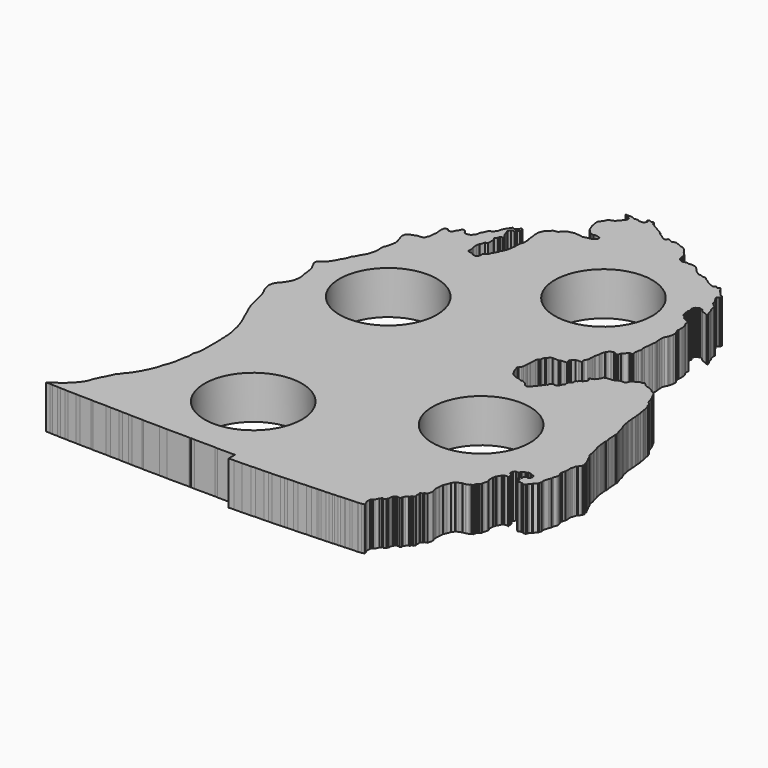
from build123d import *

# Parameters (mm, degrees)
F1_DEPTH = 25.4
F2_R     = 28.575
F3_DEPTH = 25.401


with BuildPart() as f1:
    # F0 (on Top) → F1 (new body)
    with BuildSketch(Plane.XY):
        Polygon((-98.645421, -17.82224), (-98.471279, -18.691657), (-98.297771, -19.561073), (-98.124061, -20.43049), (-97.776208, -21.647963), (-97.776208, -21.821267), (-97.602269, -22.51677), (-97.602269, -22.864826), (-97.428558, -23.386186), (-97.254644, -24.255603), (-97.080908, -24.429517), (-96.733284, -25.64699), (-96.733284, -25.994436), (-96.037781, -28.25463), (-95.86407, -28.428569), (-95.86407, -28.77599), (-95.168771, -30.341519), (-94.473268, -31.905626), (-93.604283, -33.818576), (-92.38742, -36.600765), (-91.344699, -39.034872), (-90.997049, -39.556436), (-90.128039, -41.817265), (-89.780186, -42.511929), (-89.258826, -43.903544), (-88.737262, -45.294321), (-88.563552, -45.989596), (-88.042166, -47.555125), (-88.042166, -47.728429), (-87.868049, -47.902571), (-87.868049, -48.771988), (-87.694541, -49.120044), (-87.694541, -49.815521), (-87.346892, -50.510008), (-87.346892, -50.858039), (-87.172978, -51.727481), (-86.825531, -52.945157), (-86.478288, -55.031208), (-86.478288, -55.205351), (-86.478288, -55.378452), (-86.303561, -56.944184), (-86.303561, -58.508875), (-86.130232, -59.552434), (-86.130232, -60.247098), (-86.130232, -60.42185), (-86.130232, -60.769094), (-86.130232, -61.464571), (-86.130232, -61.812627), (-85.956115, -62.855348), (-85.956115, -63.029287), (-85.956115, -64.072821), (-85.956115, -64.594181), (-85.956115, -64.76812), (-85.956115, -64.942237), (-85.956115, -66.15971), (-85.956115, -66.681071), (-85.956115, -67.723817), (-85.956115, -68.245787), (-85.956115, -68.76735), (-85.956115, -69.636767), (-85.956115, -69.98401), (-85.956115, -70.332067), (-85.956115, -71.028154), (-85.956115, -71.549539), (-85.956115, -71.896961), (-85.956115, -72.940316), (-85.956115, -73.11423), (-85.956115, -74.157154), (-85.956115, -75.027206), (-85.956115, -75.374627), (-86.130232, -77.11346), (-86.303561, -77.982877), (-86.303561, -78.33012), (-86.303561, -78.504263), (-86.478288, -79.026233), (-86.478288, -79.199537), (-86.999648, -80.243096), (-87.172978, -80.590314), (-87.172978, -80.93837), (-87.172978, -81.112512), (-87.346892, -81.112512), (-87.346892, -81.286426), (-87.172978, -82.677203), (-87.172978, -84.06798), (-87.172978, -84.415427), (-87.346892, -85.284843), (-87.694541, -86.502316), (-88.042166, -88.241149), (-88.042166, -88.415089), (-88.215902, -89.805866), (-88.389409, -90.153287), (-88.389409, -91.022703), (-88.737262, -92.762375), (-88.737262, -92.935679), (-88.911176, -93.457649), (-89.432536, -95.369812), (-89.432536, -95.543929), (-89.432536, -95.717843), (-89.780186, -96.413345), (-90.128039, -97.282762), (-90.30175, -97.804122), (-90.82311, -98.673539), (-90.82311, -98.847478), (-90.82311, -99.195738), (-90.82311, -99.368839), (-90.997049, -99.890199), (-90.997049, -100.064951), (-91.17076, -100.759616), (-91.51841, -101.803149), (-92.38742, -103.889226), (-92.909187, -105.454958), (-93.604283, -106.671618), (-94.99506, -109.453985), (-94.99506, -109.627289), (-95.168771, -109.975345), (-95.516421, -110.323401), (-96.559548, -112.062235), (-96.559548, -112.235564), (-97.776208, -113.801068), (-97.949918, -114.148514), (-98.297771, -114.495758), (-100.035792, -116.582647), (-101.078919, -118.147541), (-101.25263, -118.32148), (-101.600279, -118.494785), (-101.947929, -119.016958), (-102.295579, -119.538953), (-102.46929, -119.886374), (-102.643432, -120.407735), (-103.338503, -121.972451), (-103.860067, -122.841868), (-103.860067, -123.189924), (-104.555163, -124.407397), (-105.25064, -125.62426), (-105.94594, -127.015037), (-106.4673, -128.231671), (-106.989067, -129.27584), (-107.162778, -129.7972), (-107.858077, -131.88348), (-108.031788, -132.40545), (-108.553148, -133.448196), (-109.074941, -134.143674), (-109.943951, -135.534451), (-110.117661, -135.70839), (-110.291575, -136.056446), (-110.465311, -136.056446), (-111.682149, -137.447223), (-111.856088, -137.62134), (-112.203306, -137.969396), (-113.767819, -139.533503), (-114.637033, -140.40292), (-115.158596, -140.750976), (-115.853667, -141.446453), (-116.02781, -141.446453), (-116.89682, -142.142566), (-117.24447, -142.489809), (-117.766033, -142.663113), (-118.635043, -143.359226), (-119.330318, -143.880586), (-120.720891, -144.750003), (-120.720891, -144.92412), (-120.894831, -144.92412), (-121.937551, -145.619419), (-121.590308, -145.619419), (-121.242455, -145.619419), (-120.894831, -145.619419), (-120.720891, -145.619419), (-119.504028, -145.619419), (-117.939947, -145.793536), (-117.766033, -145.793536), (-117.592297, -145.793536), (-116.20152, -145.793536), (-114.984682, -145.793536), (-113.246459, -145.967475), (-111.682149, -145.967475), (-110.639428, -145.967475), (-108.553148, -146.141592), (-107.858077, -146.141592), (-106.989067, -146.141592), (-106.81495, -146.141592), (-105.25064, -146.141592), (-104.902787, -146.141592), (-104.033803, -146.141592), (-101.426569, -146.314897), (-99.688142, -146.314897), (-99.166782, -146.314897), (-96.037781, -146.314897), (-95.516421, -146.314897), (-94.99506, -146.314897), (-93.604283, -146.488836), (-93.256633, -146.488836), (-92.909187, -146.488836), (-91.17076, -146.488836), (-90.82311, -146.488836), (-90.30175, -146.488836), (-89.953922, -146.488836), (-89.606272, -146.488836), (-89.432536, -146.488836), (-89.084912, -146.488836), (-88.911176, -146.488836), (-88.563552, -146.488836), (-88.215902, -146.488836), (-86.478288, -146.488836), (-85.956115, -146.488836), (-83.175373, -146.662953), (-83.001231, -146.662953), (-82.131814, -146.662953), (-79.525012, -146.662953), (-78.308149, -146.662953), (-76.222073, -146.836892), (-76.047956, -146.836892), (-75.874651, -146.836892), (-75.700712, -146.836892), (-75.527408, -146.836892), (-74.657991, -146.836892), (-72.745651, -146.836892), (-70.312153, -147.010196), (-69.790158, -147.010196), (-69.269407, -147.010196), (-69.095493, -147.010196), (-68.921351, -147.010196), (-67.531412, -147.010196), (-67.010051, -147.010196), (-65.445132, -147.010196), (-64.402411, -147.010196), (-63.532995, -147.184313), (-63.359665, -147.184313), (-62.142827, -147.184313), (-60.925354, -147.184313), (-60.578111, -147.184313), (-57.275197, -147.184313), (-57.101054, -147.184313), (-56.579694, -147.184313), (-56.40639, -147.184313), (-55.536973, -147.184313), (-55.015613, -147.184313), (-54.146196, -147.184313), (-49.627231, -147.358252), (-49.105261, -147.358252), (-48.931754, -147.358252), (-47.367038, -147.358252), (-44.411951, -147.358252), (-44.064733, -147.358252), (-43.021174, -147.358252), (-41.457093, -147.358252), (-40.762631, -147.358252), (-40.414372, -147.358252), (-40.067128, -147.358252), (-39.719072, -147.358252), (-38.676351, -147.358252), (-37.980849, -147.358252), (-37.459488, -147.358252), (-36.938128, -147.358252), (-36.590072, -147.358252), (-35.547351, -147.531557), (-35.373437, -147.358252), (-33.287157, -147.531557), (-31.201716, -147.531557), (-29.984852, -147.531557), (-29.811548, -147.531557), (-27.029969, -147.531557), (-26.856055, -147.531557), (-24.943714, -147.531557), (-23.552937, -147.531557), (-23.03239, -147.531557), (-22.510394, -147.531557), (-22.336277, -147.531557), (-21.293557, -147.531557), (-19.72945, -147.706309), (-18.686729, -147.706309), (-18.164556, -147.706309), (-17.991252, -147.706309), (-16.947896, -147.706309), (-16.426536, -147.706309), (-12.428728, -147.706309), (-10.516591, -147.706309), (-10.168534, -147.706309), (-9.47387, -147.706309), (-9.47387, -148.923172), (-9.47387, -149.27039), (-9.47387, -149.618446), (-9.47387, -150.662005), (-9.47387, -151.530583), (-9.47387, -151.87864), (-9.47387, -152.4), (-6.344869, -152.226899), (-6.170955, -152.226899), (-4.084676, -152.226899), (-2.868016, -152.226899), (-1.825295, -152.226899), (3.563087, -152.052782), (5.996788, -151.87864), (6.866204, -151.87864), (8.951671, -151.87864), (9.994392, -151.87864), (11.037722, -151.87864), (13.297306, -151.705539), (13.471246, -151.705539), (15.383586, -151.705539), (20.249972, -151.530583), (22.683292, -151.357482), (23.205465, -151.357482), (23.726826, -151.357482), (24.248186, -151.357482), (27.551126, -151.183365), (28.941903, -151.183365), (29.115207, -151.183365), (30.33207, -151.183365), (35.025762, -150.836122), (35.547122, -150.836122), (37.98001, -150.836122), (41.109646, -150.662005), (42.151529, -150.662005), (43.368392, -150.487863), (43.890362, -150.487863), (46.149946, -150.487863), (47.714052, -150.313949), (48.757586, -150.313949), (49.800307, -150.313949), (51.016967, -150.139806), (51.191109, -150.139806), (51.538327, -150.139806), (51.886383, -150.139806), (52.407744, -150.139806), (53.103247, -150.139806), (54.145967, -149.966705), (55.189501, -149.966705), (55.362831, -149.966705), (55.710049, -149.966705), (55.884191, -149.966705), (56.058105, -149.966705), (56.579465, -149.966705), (57.100826, -149.792588), (57.274968, -149.792588), (57.623024, -149.792588), (58.144385, -149.792588), (58.664932, -149.792588), (59.708466, -149.792588), (60.751187, -149.618446), (61.794542, -149.618446), (62.315293, -149.618446), (63.18471, -149.618446), (63.358827, -149.618446), (63.532131, -149.618446), (63.879984, -149.618446), (64.054126, -149.618446), (64.575487, -149.445142), (64.749401, -149.445142), (65.27099, -149.445142), (65.444903, -149.445142), (65.965654, -149.445142), (66.139568, -149.445142), (66.139568, -149.27039), (66.487624, -149.27039), (67.182289, -149.097086), (67.704487, -148.923172), (67.530345, -148.227669), (66.835071, -146.662953), (66.661767, -145.967475), (66.661767, -145.793536), (66.661767, -145.619419), (66.661767, -145.44548), (66.661767, -145.271363), (66.661767, -145.098059), (66.661767, -144.576063), (66.661767, -144.401946), (66.661767, -143.880586), (66.835071, -143.53253), (66.835071, -143.359226), (67.008985, -143.185286), (67.008985, -143.011982), (67.182289, -143.011982), (67.704487, -142.837865), (68.051705, -142.489809), (68.399152, -142.142566), (69.095264, -140.40292), (69.268569, -140.40292), (69.268569, -140.22959), (69.442711, -139.881559), (69.964071, -139.18626), (69.964071, -139.012117), (70.137985, -139.012117), (70.485229, -138.838813), (70.659346, -139.360173), (70.83265, -139.533503), (71.180706, -139.360173), (71.354645, -139.18626), (71.702066, -138.838813), (71.876006, -138.664086), (72.223452, -138.490757), (72.223452, -138.31664), (72.397569, -137.62134), (72.571508, -137.447223), (72.571508, -137.274122), (72.571508, -136.404706), (72.571508, -136.230563), (72.91893, -135.18703), (72.91893, -135.01309), (73.092869, -135.01309), (73.44029, -134.317613), (73.614229, -134.317613), (73.788346, -134.143674), (73.788346, -133.96976), (73.962285, -133.96976), (74.136402, -133.795618), (74.309707, -133.622313), (74.657763, -133.622313), (74.831067, -133.622313), (75.179123, -133.622313), (75.700484, -133.795618), (76.047727, -133.96976), (76.569087, -133.448196), (76.74323, -133.100953), (76.74323, -132.40545), (76.917144, -132.057394), (77.26459, -131.536034), (77.438504, -131.187977), (78.307921, -130.318561), (78.655367, -130.144647), (79.003423, -130.318561), (79.350641, -129.623287), (79.350641, -128.927174), (80.393388, -128.927174), (80.567505, -128.75387), (80.914951, -127.884453), (80.740809, -127.188951), (80.567505, -127.015037), (80.567505, -126.66759), (80.740809, -125.450117), (80.567505, -124.754843), (80.393388, -124.754843), (80.567505, -124.407397), (81.436921, -123.885427), (81.610225, -123.885427), (82.131586, -123.01601), (83.522388, -122.668563), (84.217866, -119.886374), (84.043749, -119.712257), (84.043749, -119.190059), (83.695692, -118.147541), (83.348246, -116.408708), (83.348246, -116.234591), (83.522388, -114.148514), (83.522388, -113.801068), (83.695692, -111.888118), (83.695692, -111.540061), (84.043749, -111.018701), (84.39117, -110.149284), (84.565109, -109.802041), (85.260586, -107.888456), (85.260586, -107.715152), (85.60783, -107.193791), (86.303333, -106.324375), (86.477246, -106.150258), (86.477246, -105.976318), (87.172749, -105.628059), (87.868023, -105.280841), (88.389384, -105.106902), (89.258191, -104.758642), (89.606247, -104.585541), (90.127607, -104.585541), (91.171166, -104.411399), (91.518384, -104.411399), (92.908552, -103.889226), (93.256608, -103.541982), (93.430522, -103.367865), (93.604664, -103.194764), (93.777968, -103.194764), (93.951908, -103.194764), (94.299329, -103.019809), (94.820689, -102.846708), (94.473268, -102.325348), (94.820689, -101.803149), (94.820689, -101.629032), (94.994628, -101.281789), (95.168745, -100.934368), (95.34205, -100.934368), (95.690106, -100.586515), (96.037349, -100.412372), (96.211466, -100.412372), (96.385405, -100.064951), (96.732852, -99.368839), (96.732852, -98.847478), (96.732852, -98.673539), (96.906766, -98.151366), (97.428126, -96.413345), (97.602269, -95.543929), (97.428126, -95.021756), (97.080883, -94.50037), (96.906766, -94.152339), (96.906766, -93.979009), (96.906766, -93.805096), (96.906766, -93.630953), (96.906766, -93.457649), (96.906766, -93.283735), (96.906766, -92.935679), (96.906766, -92.762375), (96.906766, -92.588232), (96.906766, -92.066262), (96.906766, -91.89212), (96.906766, -91.718816), (96.906766, -91.37076), (97.080883, -91.022703), (97.254212, -90.328039), (97.254212, -90.153287), (97.428126, -89.979983), (97.428126, -89.805866), (97.428126, -89.632765), (97.602269, -89.458622), (97.949487, -88.936449), (98.123629, -88.76251), (98.471685, -88.241149), (98.644989, -87.719789), (98.644989, -87.371733), (98.818903, -87.371733), (98.818903, -87.197819), (99.16635, -87.023677), (99.16635, -86.850372), (99.340264, -86.850372), (99.514406, -86.67623), (100.209071, -86.502316), (100.383213, -86.502316), (100.557127, -86.502316), (100.731041, -86.502316), (101.425934, -86.502316), (101.947294, -86.67623), (102.122046, -87.023677), (102.29535, -86.850372), (102.29535, -86.328402), (101.947294, -85.6329), (101.947294, -84.764093), (101.947294, -84.415427), (101.947294, -84.06798), (101.078487, -83.720762), (100.731041, -83.54662), (100.209071, -83.025259), (100.209071, -82.329147), (100.209071, -82.155233), (100.209071, -81.981929), (100.383213, -81.459934), (100.383213, -81.286426), (100.557127, -81.286426), (100.731041, -80.93837), (101.425934, -80.243096), (101.599848, -80.243096), (101.947294, -80.243096), (102.29535, -80.4164), (102.990625, -80.243096), (103.163929, -80.068953), (103.338681, -79.546983), (103.511985, -79.373679), (103.686127, -79.026233), (104.381402, -78.678176), (104.728848, -78.33012), (105.250209, -77.982877), (106.292929, -77.982877), (106.640986, -77.460704), (107.510402, -77.460704), (108.031763, -77.634846), (108.726453, -78.156816), (108.90057, -78.33012), (109.074509, -78.33012), (109.943087, -78.504263), (110.291347, -78.504263), (110.465286, -78.678176), (110.639403, -78.852293), (110.812504, -79.199537), (110.986646, -79.721735), (110.986646, -79.895649), (110.812504, -80.243096), (110.812504, -80.590314), (110.465286, -80.93837), (110.465286, -81.112512), (109.769986, -81.807787), (109.595869, -81.807787), (109.422565, -81.633873), (109.248626, -81.633873), (108.379209, -81.459934), (107.336285, -82.155233), (107.336285, -82.329147), (107.683732, -82.851346), (107.683732, -83.54662), (106.640986, -83.720762), (106.119625, -84.415427), (106.119625, -84.937397), (106.814925, -85.284843), (107.510402, -85.111539), (107.857646, -85.980956), (107.857646, -87.371733), (108.007963, -87.471936), (108.582308, -87.966804), (108.633946, -87.946941), (108.693941, -87.910594), (108.761809, -87.860429), (108.837146, -87.799139), (109.008342, -87.653927), (109.203947, -87.496345), (109.309764, -87.419637), (109.420304, -87.347857), (109.535163, -87.283696), (109.653857, -87.229874), (109.775955, -87.189005), (109.838134, -87.174273), (109.900999, -87.163808), (109.964474, -87.157916), (110.028507, -87.15695), (110.093074, -87.161243), (110.158098, -87.171124), (110.11723, -87.545647), (110.465286, -87.371733), (110.986646, -87.371733), (111.508007, -87.545647), (111.682149, -87.719789), (112.029367, -87.893906), (112.898784, -87.719789), (113.24623, -87.545647), (113.420144, -86.67623), (113.594286, -86.502316), (113.941504, -85.980956), (114.810311, -85.284843), (114.984251, -84.764093), (115.158368, -84.590179), (116.549145, -83.372706), (116.722449, -83.025259), (116.722449, -82.851346), (116.896591, -82.503289), (116.896591, -82.329147), (117.070505, -81.459934), (117.244444, -81.112512), (117.070505, -80.068953), (117.070505, -79.199537), (117.766008, -76.765404), (117.939922, -76.417983), (118.287368, -75.547957), (118.460672, -75.374627), (118.460672, -75.20051), (118.460672, -74.67915), (118.460672, -74.331093), (118.460672, -73.983647), (119.156785, -72.418321), (119.329886, -71.896961), (119.329886, -71.3756), (118.982668, -70.158737), (118.635424, -69.28932), (118.460672, -68.941264), (118.460672, -68.593233), (118.460672, -68.419904), (118.460672, -67.550487), (118.635424, -67.202431), (118.635424, -67.028314), (118.808525, -66.333014), (118.982668, -65.984958), (118.982668, -65.115542), (119.156785, -64.594181), (118.982668, -63.203404), (118.982668, -63.029287), (118.982668, -62.855348), (118.982668, -62.507927), (118.982668, -62.159871), (118.982668, -61.985931), (119.156785, -61.464571), (119.329886, -60.943211), (119.677332, -59.552434), (120.025389, -58.856321), (120.025389, -58.683017), (120.373445, -58.508875), (120.546749, -58.160818), (121.068109, -57.639458), (121.590283, -56.596128), (121.763612, -56.596128), (121.763612, -56.422823), (121.763612, -56.247868), (121.937526, -55.726711), (121.590283, -55.378452), (121.416166, -55.205351), (121.416166, -55.031208), (121.242226, -54.857091), (121.242226, -54.68399), (121.242226, -54.509238), (121.242226, -54.335934), (121.242226, -54.161792), (121.242226, -53.987675), (121.590283, -53.814574), (121.590283, -53.640431), (121.242226, -53.466517), (121.068109, -52.945157), (120.894196, -52.771015), (120.720866, -52.248841), (120.373445, -51.554355), (120.199302, -51.206095), (119.329886, -49.640592), (119.156785, -49.120044), (118.635424, -47.902571), (118.460672, -47.555125), (117.591865, -46.510956), (117.417748, -45.294321), (117.417748, -44.772123), (117.244444, -44.251575), (117.244444, -43.555488), (117.244444, -43.381346), (117.070505, -43.208042), (116.722449, -42.164686), (116.722449, -41.642513), (116.549145, -41.642513), (116.201088, -39.556436), (115.853667, -38.687019), (115.679728, -38.512902), (115.679728, -38.339598), (115.679728, -38.165456), (115.505611, -37.470182), (115.158368, -35.383902), (115.158368, -35.035846), (115.158368, -34.861932), (115.158368, -34.687789), (114.984251, -33.644459), (114.984251, -33.297012), (114.810311, -32.253657), (114.810311, -31.384875), (114.984251, -31.036209), (114.984251, -30.688763), (114.810311, -29.297986), (114.637007, -28.602686), (114.462865, -28.25463), (114.462865, -26.863853), (114.288951, -24.950903), (114.288951, -24.255603), (114.288951, -24.081486), (114.288951, -23.212044), (114.115647, -22.864826), (114.288951, -22.51677), (114.288951, -22.168714), (114.115647, -21.647963), (113.767591, -20.43049), (113.420144, -19.735013), (113.24623, -19.039713), (112.898784, -18.170296), (112.72487, -17.300067), (112.72487, -16.779519), (112.376814, -15.910103), (111.508007, -13.823213), (111.15995, -12.258294), (111.15995, -12.08438), (110.986646, -11.041659), (110.812504, -10.346157), (110.639403, -9.47613), (110.639403, -9.301988), (110.639403, -9.128684), (110.465286, -7.215937), (110.465286, -6.867881), (110.291347, -5.825134), (110.291347, -5.651017), (110.291347, -5.477713), (110.291347, -4.607458), (110.291347, -4.433545), (110.291347, -4.086098), (110.291347, -3.738042), (110.11723, -2.868625), (109.943087, -1.651991), (109.943087, -0.956488), (109.769986, 0.782345), (109.422565, 1.303706), (109.422565, 1.999818), (109.422565, 2.869235), (109.248626, 3.564509), (109.074509, 4.085895), (109.074509, 4.607255), (108.726453, 5.824093), (108.553148, 7.041566), (108.553148, 7.562926), (108.379209, 7.562926), (108.205702, 7.737678), (108.031763, 7.910982), (107.857646, 8.085125), (107.683732, 8.432343), (107.857646, 8.606282), (108.031763, 8.606282), (107.857646, 8.954338), (107.857646, 9.127642), (107.857646, 9.301785), (107.683732, 9.649816), (107.510402, 9.823755), (107.162346, 10.171201), (106.988229, 10.519232), (105.945508, 11.388674), (105.771569, 12.084152), (105.598265, 12.258091), (105.076092, 13.996289), (104.728848, 14.866341), (104.728848, 15.039645), (104.554731, 15.387701), (104.207488, 16.083178), (104.033371, 16.257118), (103.511985, 17.47459), (103.338681, 17.647895), (103.163929, 17.995951), (102.642568, 19.212814), (102.469264, 19.386728), (102.122046, 19.734784), (101.078487, 20.430287), (100.905183, 20.430287), (100.557127, 20.603591), (100.209071, 20.603591), (99.861624, 20.951647), (99.514406, 21.646921), (98.471685, 22.168282), (98.297746, 22.168282), (98.123629, 22.342424), (97.602269, 22.516338), (97.428126, 22.69048), (96.385405, 22.864394), (95.168745, 23.211841), (94.299329, 23.559897), (93.604664, 24.429314), (93.430522, 24.603227), (92.908552, 25.124588), (92.213049, 24.950674), (92.039745, 24.950674), (92.039745, 24.776532), (91.344267, 24.429314), (90.82311, 24.429314), (90.648968, 24.603227), (90.127607, 24.603227), (89.432333, 23.907115), (89.258191, 23.733201), (88.910947, 23.385755), (88.563526, 23.211841), (88.389384, 23.211841), (87.868023, 23.211841), (87.69411, 23.037902), (87.172749, 23.037902), (86.824693, 22.69048), (86.651389, 22.168282), (86.477246, 21.994368), (86.303333, 21.646921), (86.303333, 21.473617), (85.955886, 20.777505), (85.434526, 20.082231), (85.086469, 20.082231), (84.913165, 19.908088), (84.39117, 19.734784), (84.217866, 19.734784), (82.827089, 19.908088), (82.653784, 19.908088), (81.957672, 19.734784), (81.957672, 19.560845), (81.784368, 19.386728), (81.436921, 19.212814), (81.262804, 19.038672), (81.088865, 19.038672), (80.740809, 18.864758), (80.567505, 18.691428), (80.220058, 18.691428), (78.829484, 18.169255), (78.134007, 18.343397), (77.959864, 18.343397), (77.438504, 18.169255), (77.26459, 18.169255), (76.395783, 18.169255), (76.221869, 18.169255), (75.700484, 17.995951), (75.526367, 17.822012), (75.179123, 17.822012), (74.483646, 17.47459), (74.483646, 17.125925), (74.136402, 16.257118), (73.962285, 16.083178), (73.44029, 14.866341), (72.91893, 14.344345), (72.397569, 13.822782), (72.223452, 13.648868), (72.049513, 13.648868), (71.528762, 13.300812), (70.485229, 13.127507), (70.312128, 13.127507), (69.964071, 12.953568), (69.789929, 12.779451), (69.964071, 12.431395), (70.312128, 12.431395), (70.485229, 12.084152), (70.659346, 11.910035), (70.83265, 11.561978), (70.83265, 11.388674), (70.83265, 11.214735), (70.83265, 11.040618), (70.83265, 10.519232), (69.442711, 8.780399), (67.704487, 7.910982), (67.704487, 7.562926), (67.704487, 7.389622), (67.008985, 7.041566), (66.835071, 6.868262), (66.661767, 6.346088), (66.487624, 5.824093), (66.661767, 5.129428), (66.661767, 4.955311), (66.31371, 4.607255), (65.79235, 4.433316), (65.096847, 3.564509), (64.749401, 2.347062), (64.922933, 2.347062), (65.096847, 1.999818), (65.096847, 1.651762), (64.749401, 1.130402), (64.054126, 0.086843), (63.879984, -0.261214), (63.70607, -0.435127), (63.70607, -0.782574), (63.532131, -1.129995), (63.010771, -1.825904), (61.446689, -2.174164), (61.09843, -1.825904), (61.09843, -1.651991), (60.577882, -1.651991), (59.708466, -2.347265), (59.361045, -2.695321), (59.187105, -2.868625), (59.187105, -3.04358), (59.187105, -3.390824), (59.012988, -4.086098), (58.491628, -4.086098), (58.491628, -4.26024), (57.970242, -5.129657), (57.274968, -5.825134), (56.927521, -6.520434), (56.753608, -6.694551), (55.536744, -8.259267), (53.624607, -10.519461), (52.929307, -11.214964), (52.75519, -11.214964), (51.191109, -10.693603), (51.016967, -10.693603), (49.800307, -9.128684), (48.583469, -8.606714), (48.410165, -8.43341), (48.236226, -8.43341), (47.888779, -8.259267), (47.366809, -7.912024), (47.366809, -8.43341), (46.845449, -8.259267), (45.281164, -7.563968), (44.933311, -7.389851), (43.020945, -7.215937), (42.847031, -7.215937), (41.630168, -6.520434), (41.28295, -6.346292), (40.413534, -5.825134), (39.718234, -5.129657), (38.676123, -3.04358), (38.154762, -1.999209), (37.632589, -0.261214), (37.285346, 0.608203), (37.285346, 0.95565), (37.285346, 1.303706), (37.806706, 1.303706), (37.98001, 1.651762), (38.502006, 2.173122), (38.676123, 2.521179), (38.676123, 2.694483), (38.849427, 3.390595), (39.023366, 5.129428), (39.023366, 6.172149), (39.19667, 7.910982), (39.19667, 8.432343), (39.371422, 11.736705), (39.544727, 12.431395), (39.892783, 13.127507), (40.76159, 13.474929), (40.76159, 14.344345), (40.934894, 15.213762), (41.456864, 16.083178), (41.804311, 16.257118), (42.326281, 16.952595), (42.499788, 17.125925), (42.673727, 17.47459), (43.020945, 17.822012), (44.064504, 18.343397), (44.585865, 18.343397), (45.107225, 18.169255), (46.149946, 18.169255), (46.671306, 18.169255), (47.540723, 18.169255), (47.714052, 18.169255), (48.062109, 18.343397), (48.410165, 18.343397), (48.583469, 18.691428), (50.495606, 18.691428), (51.191109, 18.691428), (52.060526, 18.864758), (51.538327, 20.777505), (51.538327, 20.951647), (51.71247, 21.298865), (51.71247, 21.473617), (51.886383, 21.473617), (52.060526, 21.994368), (52.75519, 22.516338), (53.624607, 23.211841), (55.189501, 23.559897), (56.231409, 23.385755), (57.100826, 23.559897), (56.753608, 24.429314), (56.753608, 25.124588), (56.927521, 25.645948), (56.927521, 25.820091), (57.623024, 26.862811), (57.796328, 27.90637), (57.970242, 28.254198), (57.796328, 28.775787), (57.970242, 29.993057), (57.970242, 30.862676), (57.970242, 31.210733), (57.970242, 31.557951), (58.144385, 32.25325), (58.664932, 33.992287), (58.664932, 35.035617), (58.839659, 36.25248), (59.361045, 37.643257), (59.361045, 37.817196), (59.534349, 37.817196), (59.534349, 37.991313), (60.055912, 38.86073), (60.925126, 39.730147), (61.272572, 39.904086), (61.446689, 39.904086), (62.141989, 40.07739), (62.489207, 40.251507), (63.358827, 40.07739), (63.532131, 40.07739), (64.227431, 39.730147), (64.401548, 39.730147), (64.575487, 39.208786), (65.27099, 39.55603), (65.444903, 39.730147), (65.618208, 40.251507), (65.79235, 40.773706), (65.965654, 41.294863), (66.31371, 41.468167), (66.661767, 41.816223), (68.051705, 43.729173), (68.225848, 43.903316), (68.573904, 44.250534), (69.268569, 44.250534), (69.789929, 44.076417), (70.137985, 44.250534), (70.312128, 44.59859), (70.312128, 44.772732), (70.312128, 45.11995), (70.137985, 46.163509), (70.312128, 47.206027), (70.485229, 48.423703), (70.83265, 49.641176), (70.83265, 49.81448), (70.83265, 49.988419), (70.659346, 50.33584), (70.659346, 50.510592), (70.659346, 51.205257), (70.485229, 51.380009), (70.485229, 52.596669), (71.006589, 55.379036), (71.006589, 55.552365), (71.006589, 55.726279), (71.006589, 56.769838), (71.006589, 57.638417), (71.006589, 57.812559), (71.354645, 59.37725), (71.354645, 59.725509), (71.354645, 60.247505), (71.354645, 60.420809), (71.180706, 61.464342), (71.006589, 63.202972), (71.006589, 63.550419), (71.006589, 63.724561), (71.006589, 64.071779), (71.006589, 64.419836), (71.006589, 64.767892), (71.006589, 64.941196), (71.354645, 66.332811), (72.049513, 67.549446), (72.223452, 68.071644), (72.397569, 68.071644), (72.397569, 68.418862), (72.571508, 68.941061), (72.91893, 70.505142), (72.91893, 70.853198), (72.91893, 71.201255), (73.092869, 72.070671), (73.092869, 72.592032), (72.91893, 72.765945), (72.571508, 73.114002), (72.571508, 73.288144), (72.223452, 73.635387), (72.223452, 73.809504), (71.876006, 75.026164), (71.702066, 75.547728), (71.702066, 75.721642), (71.876006, 75.895581), (71.876006, 77.112419), (71.876006, 77.460475), (71.876006, 78.503831), (71.702066, 80.242054), (71.528762, 80.764024), (71.528762, 81.285588), (71.180706, 81.633644), (70.83265, 82.155005), (70.485229, 83.024421), (70.485229, 83.372477), (70.485229, 84.937194), (68.747208, 85.458554), (66.487624, 86.675824), (66.31371, 86.849534), (65.965654, 87.892661), (65.27099, 88.240718), (65.096847, 88.240718), (64.922933, 88.414454), (64.575487, 88.762078), (64.401548, 88.762078), (64.227431, 89.457784), (64.054126, 89.805434), (63.879984, 90.326794), (63.879984, 90.848561), (63.70607, 91.196211), (63.70607, 91.717978), (63.532131, 92.587394), (63.532131, 93.109186), (64.054126, 93.804664), (64.227431, 93.804664), (64.401548, 94.152314), (64.575487, 94.499963), (64.227431, 94.67408), (63.70607, 95.02173), (63.358827, 95.891147), (63.18471, 96.238797), (63.358827, 96.412507), (63.532131, 96.934274), (63.70607, 97.108213), (63.879984, 97.629574), (64.227431, 98.15134), (64.401548, 98.15134), (64.575487, 98.15134), (64.749401, 98.32528), (65.096847, 98.673107), (65.444903, 98.673107), (66.139568, 99.020757), (66.31371, 99.020757), (66.487624, 99.020757), (67.356431, 98.673107), (67.878401, 98.49899), (68.399152, 97.629574), (69.268569, 96.934274), (71.354645, 96.412507), (72.049513, 95.891147), (72.91893, 95.717004), (73.266173, 95.891147), (72.91893, 96.760157), (72.571508, 97.281924), (72.397569, 97.281924), (71.876006, 98.673107), (71.876006, 99.020757), (71.354645, 100.585473), (70.83265, 101.280951), (70.312128, 103.541576), (70.312128, 104.23685), (70.485229, 104.410993), (69.268569, 104.932353), (68.747208, 105.628059), (68.747208, 105.80177), (68.747208, 105.975683), (68.051705, 105.975683), (67.878401, 106.323536), (67.704487, 106.671186), (67.704487, 107.366664), (67.008985, 108.93138), (66.835071, 109.105522), (66.661767, 109.105522), (66.661767, 109.279436), (66.487624, 109.627086), (66.31371, 109.800796), (66.139568, 110.148446), (65.618208, 110.844152), (65.618208, 111.017863), (65.27099, 111.713569), (65.27099, 112.235132), (65.965654, 112.582782), (66.487624, 112.930813), (66.835071, 113.973966), (66.661767, 114.321615), (66.487624, 114.495529), (65.965654, 114.66924), (65.79235, 114.66924), (64.749401, 115.364743), (64.749401, 115.538656), (64.575487, 115.886306), (64.227431, 116.408073), (63.532131, 116.929865), (63.18471, 117.27749), (62.315293, 118.494759), (61.794542, 119.190059), (61.446689, 119.711826), (61.09843, 120.233186), (60.751187, 120.407125), (59.88177, 119.537709), (59.534349, 119.711826), (58.491628, 120.407125), (58.317689, 120.407125), (58.144385, 120.407125), (58.144385, 120.233186), (58.144385, 120.059475), (57.970242, 119.885536), (57.623024, 119.711826), (56.927521, 119.537709), (56.753608, 119.711826), (55.536744, 119.885536), (55.362831, 120.059475), (53.972054, 120.928892), (53.276551, 121.276542), (53.103247, 121.450252), (52.929307, 121.450252), (52.75519, 121.624369), (51.71247, 122.319669), (51.191109, 122.667319), (50.843866, 122.841436), (50.321667, 123.189086), (50.148363, 123.189086), (49.974449, 123.536735), (48.93089, 124.406152), (48.236226, 124.232645), (48.062109, 124.232645), (47.714052, 124.232645), (47.193505, 124.232645), (46.845449, 124.406152), (46.149946, 124.754005), (45.454672, 124.754005), (44.411748, 124.927919), (44.064504, 125.101629), (43.716448, 125.449686), (43.542534, 125.449686), (43.020945, 125.797335), (42.673727, 125.971046), (42.673727, 126.144985), (42.499788, 126.144985), (42.326281, 126.318696), (42.151529, 126.492838), (41.804311, 126.840488), (40.413534, 128.405179), (39.023366, 129.796362), (38.676123, 129.970098), (37.98001, 130.144215), (37.45926, 130.318154), (36.415929, 130.318154), (36.068483, 130.318154), (35.373208, 130.318154), (35.199066, 130.318154), (34.330488, 130.144215), (33.808289, 130.491865), (33.286929, 130.491865), (32.939482, 130.665779), (32.765568, 130.665779), (32.417512, 130.491865), (32.244208, 130.318154), (31.375604, 129.970098), (31.200649, 129.970098), (30.506187, 130.144215), (30.33207, 130.144215), (30.158741, 130.144215), (29.289324, 130.665779), (28.767964, 131.013632), (28.593847, 131.187368), (28.593847, 131.361282), (28.245791, 131.708931), (28.245791, 131.883048), (27.898547, 132.578348), (27.725243, 133.795414), (27.551126, 133.969125), (27.725243, 134.143242), (27.725243, 135.012659), (27.551126, 135.360308), (27.20307, 136.055811), (27.029131, 136.229725), (25.98641, 137.099142), (25.638963, 137.620934), (24.943486, 138.489919), (24.769547, 138.664061), (24.074272, 139.881127), (23.552709, 140.228777), (23.031348, 140.750544), (22.336049, 141.098194), (20.076465, 141.619961), (19.555104, 141.96761), (19.207861, 142.141321), (19.033744, 142.141321), (18.338444, 142.488971), (17.121607, 143.010738), (16.07886, 142.837027), (14.51417, 142.315438), (14.340027, 142.488971), (13.818667, 142.663088), (13.644753, 142.837027), (13.471246, 142.837027), (13.297306, 143.010738), (12.601829, 143.358387), (11.907342, 143.358387), (11.559083, 143.010738), (11.211865, 142.315438), (10.690504, 142.315438), (10.168306, 142.141321), (9.994392, 142.141321), (9.994392, 142.315438), (9.82025, 142.315438), (9.125585, 142.837027), (8.951671, 143.010738), (8.256981, 143.532504), (7.908925, 143.70624), (7.213448, 144.227804), (6.518148, 144.575657), (6.170092, 144.923281), (5.649366, 145.271338), (5.30131, 145.618987), (5.30131, 145.792698), (4.258564, 146.488404), (3.041929, 147.183907), (2.867787, 147.183907), (2.69367, 147.357414), (2.520366, 147.531531), (1.99837, 147.70547), (0.608203, 148.748598), (-0.087071, 148.92274), (-1.13063, 149.4441), (-1.303934, 149.618014), (-1.303934, 149.965664), (-3.042158, 150.661167), (-3.216072, 151.530583), (-3.564128, 151.878208), (-3.564128, 152.225858), (-3.911575, 152.225858), (-4.084676, 152.225858), (-4.432935, 152.05235), (-4.954092, 151.878208), (-5.997626, 152.4), (-6.170955, 152.4), (-6.344869, 152.225858), (-6.518986, 152.225858), (-7.040372, 151.704497), (-7.040372, 151.530583), (-6.866433, 151.356847), (-6.518986, 151.008791), (-6.344869, 150.835081), (-6.518986, 150.313517), (-6.866433, 149.618014), (-7.040372, 149.618014), (-7.387793, 149.270364), (-7.909154, 149.096247), (-9.647987, 149.096247), (-10.342677, 149.270364), (-10.516591, 149.4441), (-10.690733, 149.618014), (-11.037951, 149.618014), (-13.298348, 149.4441), (-13.993038, 149.965664), (-14.688312, 150.313517), (-17.643196, 150.313517), (-18.338673, 150.487431), (-18.686729, 150.313517), (-18.512612, 150.139375), (-17.991252, 149.79175), (-17.643196, 149.79175), (-17.295952, 149.79175), (-16.947896, 149.618014), (-16.253231, 149.096247), (-15.731668, 148.748598), (-15.383815, 148.574684), (-14.862251, 147.879181), (-14.862251, 147.357414), (-15.036368, 146.662115), (-15.036368, 146.488404), (-16.426536, 144.749571), (-16.600475, 144.575657), (-16.774592, 144.401921), (-17.817109, 143.532504), (-17.991252, 142.837027), (-18.338673, 142.488971), (-18.686729, 142.315438), (-18.686729, 142.141321), (-18.860033, 142.141321), (-20.250836, 141.619961), (-21.119414, 141.271904), (-21.815527, 140.576402), (-21.988831, 140.228777), (-21.988831, 140.054838), (-22.162973, 139.706985), (-22.857638, 138.489919), (-23.901197, 137.272878), (-24.249253, 136.577375), (-24.249253, 136.055811), (-24.074298, 134.664831), (-24.074298, 133.969125), (-23.727054, 132.752465), (-23.727054, 132.578348), (-23.552937, 131.708931), (-23.03239, 130.491865), (-22.684334, 129.448738), (-22.684334, 129.274595), (-21.815527, 127.883818), (-21.641613, 127.883818), (-20.94611, 127.188112), (-20.42475, 126.492838), (-20.250836, 126.144985), (-19.90278, 126.144985), (-18.860033, 125.623422), (-17.817109, 125.275569), (-17.817109, 125.101629), (-17.382757, 125.014825), (-17.643196, 125.275569), (-17.643196, 125.449686), (-17.121835, 125.623422), (-16.600475, 125.623422), (-13.993038, 125.101629), (-13.645591, 124.754005), (-13.645591, 124.406152), (-13.645591, 124.232645), (-13.471474, 124.232645), (-13.471474, 123.884588), (-13.471474, 123.710852), (-13.471474, 123.536735), (-13.645591, 123.015375), (-13.645591, 122.841436), (-13.818895, 122.841436), (-15.036368, 122.145958), (-15.905175, 121.624369), (-16.079089, 121.624369), (-16.774592, 121.450252), (-17.295952, 121.450252), (-17.991252, 121.276542), (-18.164556, 121.276542), (-19.382029, 120.928892), (-19.90278, 120.581242), (-20.42475, 120.581242), (-20.94611, 120.754953), (-23.205694, 121.102603), (-25.639192, 121.276542), (-27.029969, 120.928892), (-27.725472, 120.581242), (-28.420771, 120.581242), (-29.116249, 120.407125), (-29.636796, 119.885536), (-30.506416, 119.016323), (-31.375629, 118.494759), (-31.549772, 118.146906), (-31.549772, 117.972992), (-31.897193, 117.625343), (-32.245046, 117.451226), (-32.41835, 117.451226), (-32.591858, 117.27749), (-33.287157, 117.27749), (-33.635213, 117.451226), (-34.330488, 117.103576), (-34.852077, 116.755723), (-35.199904, 116.408073), (-35.721493, 115.712596), (-35.894797, 115.712596), (-36.938128, 114.843382), (-37.632818, 113.973966), (-38.676351, 111.365716), (-38.676351, 109.279436), (-38.676351, 108.06237), (-38.328905, 107.366664), (-38.154991, 104.5845), (-37.980849, 103.541576), (-37.980849, 103.367434), (-37.806935, 103.019784), (-37.632818, 102.672159), (-37.632818, 100.237823), (-37.632818, 99.020757), (-38.154991, 97.97763), (-38.328905, 97.455863), (-38.328905, 97.281924), (-38.502234, 95.36938), (-38.502234, 95.195441), (-38.328905, 93.804664), (-38.502234, 93.109186), (-39.023595, 89.979144), (-39.197712, 89.457784), (-39.371016, 88.762078), (-39.893011, 87.371301), (-40.240433, 86.849534), (-40.414372, 86.502088), (-40.587676, 86.327971), (-40.762631, 86.154031), (-40.935732, 85.632671), (-40.935732, 85.458554), (-40.935732, 85.110498), (-41.631235, 83.719721), (-41.804539, 83.546417), (-42.326509, 82.503061), (-42.848073, 81.633644), (-43.021174, 80.938141), (-43.543372, 80.242054), (-43.890794, 79.894608), (-44.586093, 79.547364), (-44.934149, 79.373451), (-45.45551, 78.155775), (-45.281367, 77.982674), (-45.281367, 77.634414), (-45.281367, 77.112419), (-45.107454, 77.112419), (-45.281367, 76.939115), (-45.281367, 76.764998), (-45.45551, 76.591058), (-45.45551, 76.417145), (-46.324317, 75.373586), (-46.498231, 75.373586), (-46.498231, 75.200281), (-46.672373, 75.200281), (-46.845677, 75.200281), (-47.019591, 75.200281), (-47.889008, 75.373586), (-48.06315, 75.373586), (-48.757815, 75.721642), (-48.757815, 75.895581), (-48.931754, 76.069698), (-49.105261, 76.243637), (-49.316767, 76.439725), (-49.665433, 76.318161), (-50.148592, 76.591058), (-50.321896, 76.591058), (-50.496648, 76.591058), (-50.669952, 76.591058), (-50.843891, 76.591058), (-51.018008, 76.591058), (-51.365455, 76.591058), (-51.713308, 76.764998), (-51.886612, 76.764998), (-52.060729, 76.939115), (-52.234871, 77.112419), (-52.407972, 77.286358), (-52.407972, 77.460475), (-52.407972, 77.634414), (-52.407972, 77.808531), (-52.234871, 78.503831), (-52.234871, 78.851252), (-52.407972, 80.068725), (-52.582115, 80.416171), (-52.582115, 80.590111), (-52.929536, 81.633644), (-52.929536, 82.851117), (-52.929536, 83.024421), (-52.929536, 83.893838), (-52.755419, 84.763254), (-52.582115, 85.28525), (-52.582115, 85.458554), (-52.234871, 85.979914), (-51.538556, 88.240718), (-51.191312, 88.414454), (-50.321896, 88.588367), (-50.148592, 88.588367), (-50.148592, 90.500911), (-50.148592, 92.065627), (-50.321896, 93.456811), (-50.321896, 93.282897), (-50.669952, 93.804664), (-51.191312, 94.326227), (-50.496648, 95.02173), (-50.321896, 95.195441), (-50.148592, 95.36938), (-50.148592, 95.543497), (-49.974678, 95.717004), (-49.974678, 95.891147), (-49.80117, 97.108213), (-48.58451, 97.281924), (-48.410368, 97.108213), (-48.236454, 97.281924), (-48.236454, 98.49899), (-48.58451, 99.194493), (-49.105261, 99.368407), (-49.974678, 101.6286), (-50.321896, 102.498017), (-50.669952, 103.541576), (-50.496648, 104.062936), (-49.974678, 104.758617), (-49.80117, 105.106267), (-49.279785, 105.45412), (-48.410368, 105.628059), (-48.236454, 105.628059), (-48.236454, 105.45412), (-48.06315, 105.45412), (-47.889008, 105.45412), (-47.889008, 105.628059), (-47.889008, 105.80177), (-47.367038, 106.497247), (-46.498231, 106.8451), (-46.150174, 107.192953), (-45.97687, 108.06237), (-46.672373, 109.627086), (-47.193733, 109.627086), (-47.715094, 108.93138), (-47.889008, 108.410019), (-49.105261, 107.540603), (-49.453114, 107.366664), (-50.148592, 107.366664), (-50.496648, 107.540603), (-50.496648, 107.888253), (-50.843891, 107.888253), (-51.538556, 106.671186), (-52.755419, 104.932353), (-53.798749, 102.846073), (-53.972257, 101.976657), (-54.146196, 101.10724), (-54.668166, 100.41194), (-54.841673, 100.237823), (-55.015613, 99.890174), (-55.88442, 99.020757), (-57.44911, 98.32528), (-57.623253, 97.97763), (-58.491831, 95.891147), (-59.01403, 95.36938), (-59.361248, 94.326227), (-59.53539, 92.935247), (-59.53539, 92.587394), (-60.925354, 90.67485), (-61.099471, 90.500911), (-61.272776, 90.326794), (-61.447528, 90.153287), (-62.663578, 89.805434), (-63.532995, 89.631495), (-64.402411, 89.805434), (-64.576528, 89.805434), (-64.923772, 90.153287), (-65.445132, 91.196211), (-65.793188, 91.544064), (-66.835299, 92.065627), (-67.531412, 92.065627), (-67.87863, 91.89212), (-67.87863, 91.717978), (-68.226686, 91.0225), (-68.226686, 90.848561), (-68.748046, 89.979144), (-69.269407, 89.631495), (-69.44294, 89.109728), (-69.790158, 88.066601), (-70.312153, 87.371301), (-70.833717, 87.023448), (-71.877047, 87.023448), (-72.397798, 87.197184), (-72.919768, 87.545037), (-73.267011, 88.240718), (-74.31057, 87.892661), (-74.831296, 87.545037), (-75.005235, 86.675824), (-75.179352, 85.979914), (-75.179352, 84.415833), (-74.831296, 82.155005), (-74.831296, 81.459527), (-74.831296, 81.285588), (-75.005235, 81.111471), (-75.179352, 79.894608), (-75.352656, 77.982674), (-75.352656, 77.286358), (-75.700712, 76.591058), (-76.047956, 75.895581), (-76.222073, 75.373586), (-76.222073, 75.200281), (-77.265428, 74.504804), (-77.960931, 74.330865), (-79.87223, 74.330865), (-80.046373, 74.330865), (-80.741647, 73.809504), (-82.131814, 73.461448), (-83.870648, 72.940088), (-83.870648, 72.765945), (-84.739455, 72.243975), (-85.086698, 71.896529), (-85.086698, 71.722615), (-85.26145, 71.375168), (-85.26145, 70.679056), (-85.434754, 69.809639), (-85.434754, 69.636335), (-85.26145, 69.288279), (-85.086698, 68.593005), (-85.086698, 68.245558), (-84.913394, 67.897502), (-84.565338, 67.202025), (-84.218094, 65.810613), (-84.04479, 65.637308), (-84.04479, 65.289252), (-83.870648, 64.941196), (-83.696734, 64.593978), (-83.696734, 64.419836), (-83.696734, 64.245922), (-83.522591, 62.507089), (-83.696734, 61.116921), (-84.218094, 58.856093), (-84.565338, 57.638417), (-84.565338, 57.465112), (-84.913394, 56.595696), (-85.26145, 56.248452), (-85.26145, 55.204309), (-85.26145, 55.031005), (-85.434754, 54.856863), (-85.434754, 54.682949), (-85.434754, 54.161563), (-85.434754, 53.813532), (-85.26145, 52.769973), (-85.26145, 52.596669), (-85.26145, 52.42273), (-85.26145, 52.074674), (-85.26145, 51.553313), (-85.434754, 50.162536), (-86.303561, 47.032926), (-86.303561, 46.858809), (-86.478288, 45.989392), (-88.215902, 43.207), (-88.737262, 42.337584), (-89.084912, 41.468167), (-89.780186, 40.07739), (-89.780186, 39.904086), (-90.6494, 39.034669), (-90.997049, 37.991313), (-91.17076, 37.46914), (-91.692552, 35.905034), (-92.561537, 34.687561), (-92.73507, 34.513647), (-93.082897, 33.818144), (-93.951908, 32.079311), (-94.99506, 30.340478), (-94.99506, 30.167174), (-95.516421, 29.471899), (-96.385431, 28.601645), (-96.385431, 28.42834), (-96.559548, 28.42834), (-97.949918, 27.210868), (-98.818929, 26.689507), (-99.340695, 26.168147), (-99.862056, 25.645948), (-100.209706, 24.950674), (-100.209706, 24.255171), (-100.035792, 23.211841), (-99.862056, 23.037902), (-99.862056, 22.864394), (-99.514431, 22.342424), (-99.514431, 22.168282), (-99.340695, 21.994368), (-98.645421, 20.603591), (-97.949918, 19.386728), (-97.602269, 18.517311), (-97.602269, 18.343397), (-97.428558, 17.47459), (-97.254644, 16.952595), (-97.254644, 16.605174), (-97.254644, 16.083178), (-96.907198, 14.518284), (-96.733284, 13.127507), (-96.733284, 12.431395), (-96.733284, 12.258091), (-96.211898, 9.823755), (-96.037781, 8.606282), (-96.211898, 7.041566), (-96.211898, 6.868262), (-96.211898, 6.69351), (-96.559548, 4.955311), (-96.559548, 4.781372), (-96.907198, 3.911956), (-96.907198, 3.738651), (-96.907198, 3.564509), (-97.080908, 3.564509), (-97.080908, 3.390595), (-97.949918, 1.825066), (-97.949918, 1.651762), (-98.645421, 0.782345), (-98.993071, 0.086843), (-100.731066, -1.825904), (-101.774219, -3.390824), (-102.295579, -4.607458), (-102.295579, -4.781601), (-102.295579, -4.955718), (-102.295579, -5.651017), (-102.46929, -5.651017), (-102.46929, -5.825134), (-102.46929, -5.998464), (-102.46929, -6.520434), (-102.46929, -6.694551), (-102.295579, -7.737094), (-101.947929, -9.47613), (-101.947929, -9.650044), (-101.774219, -9.824187), (-101.426569, -10.866907), (-100.904802, -12.08438), (-100.557559, -12.605741), (-100.383416, -13.127711), (-99.340695, -15.387904), (-99.340695, -15.562047), (-98.818929, -16.952824), (-98.818929, -17.300067), align=None)
    extrude(amount=F1_DEPTH)

    # F2 (on face) → F3 (cut, through all)
    with BuildSketch(Plane.XY.offset(25.4)):
        with Locations((-35.950822, -101.173888)):
            Circle(F2_R)
        with Locations((60.050969, -54.018776)):
            Circle(F2_R)
        with Locations((25.180779, 79.301084)):
            Circle(F2_R)
        with Locations((-52.596496, 18.641399)):
            Circle(F2_R)
    extrude(amount=-F3_DEPTH, mode=Mode.SUBTRACT)


solid = f1.part
